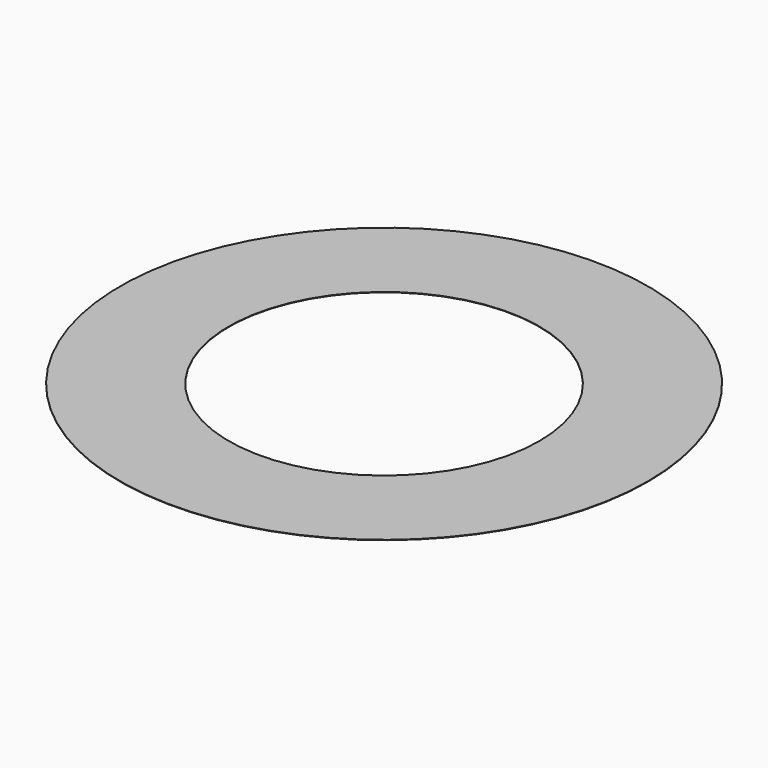
from build123d import *

# Parameters (mm, degrees)
F0_R     = 34
F0_R_2   = 26.5
F0_R_3   = 20
F1_DEPTH = 0.05


with BuildPart() as f1:
    # F0 (on Top) → F1 (new body)
    with BuildSketch(Plane.XY):
        Circle(F0_R)
        Circle(F0_R_2, mode=Mode.SUBTRACT)
        Circle(F0_R_2)
        Circle(F0_R_3, mode=Mode.SUBTRACT)
    extrude(amount=F1_DEPTH)


solid = f1.part
